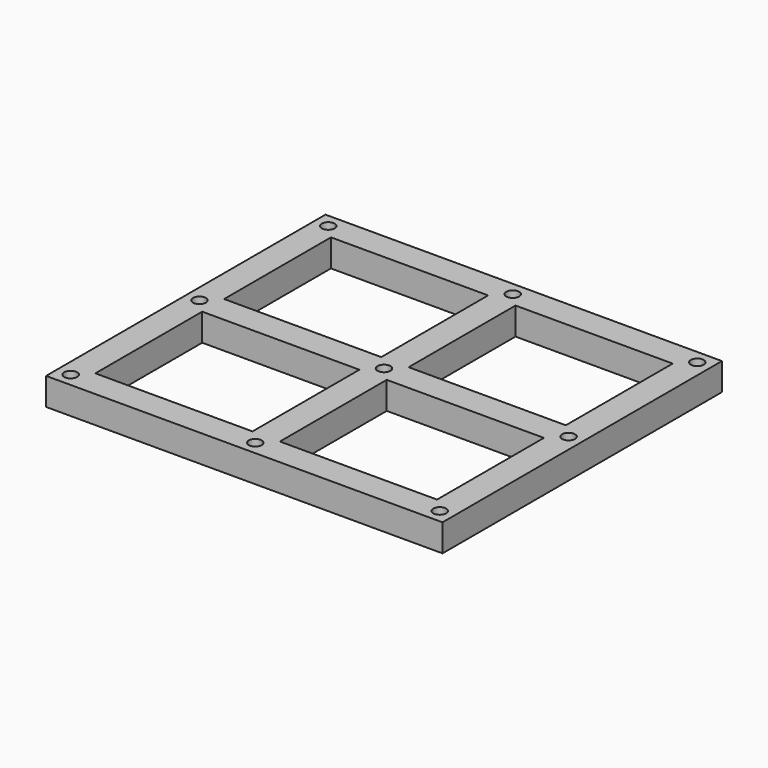
from build123d import *

# Parameters (mm, degrees)
F0_W     = 92
F0_H     = 81.05
F1_DEPTH = 6.35
F3_W     = 36.475
F3_H     = 31
F4_DEPTH = 6.35
F5_D     = 3


with BuildPart() as f1:
    # F0 (on Top) → F1 (new body)
    with BuildSketch(Plane.XY):
        Rectangle(F0_W, F0_H)
    extrude(amount=F1_DEPTH)

    # F3 (on face) → F4 (cut)
    with BuildSketch(Plane(origin=(0, 0, 0), x_dir=(1, 0, 0), z_dir=(0, 0, -1))):
        with Locations((-21.4125, 18.675)):
            Rectangle(F3_W, F3_H)
        with Locations((-21.4125, -18.675)):
            Rectangle(F3_W, F3_H)
        with Locations((21.4125, 18.675)):
            Rectangle(F3_W, F3_H)
        with Locations((21.4125, -18.675)):
            Rectangle(F3_W, F3_H)
    extrude(amount=-F4_DEPTH, mode=Mode.SUBTRACT)

    # F5 (through all)
    with Locations(Plane.XY.offset(6.35)):
        with Locations((-42.825, 37.35), (0, 37.35), (42.825, 37.35), (-42.825, 0), (0, 0), (42.825, 0), (-42.825, -37.35), (0, -37.35), (42.825, -37.35)):
            Hole(F5_D / 2)


solid = f1.part
